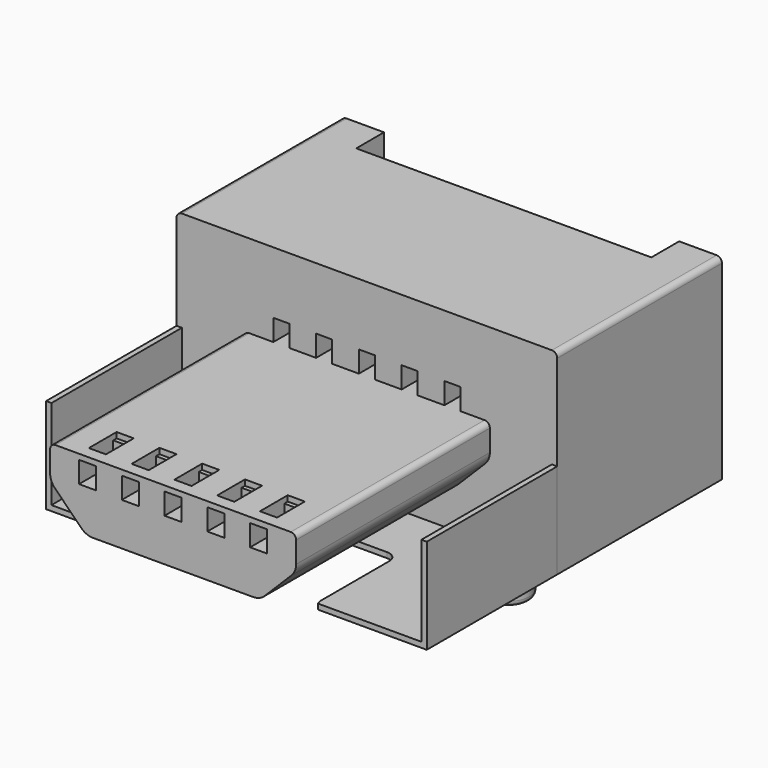
from build123d import *

# Parameters (mm, degrees)
EXTRUDE_SKETCH038_DEPTH                          = 0.65
EXTRUDE_SKETCH038_ONTO_SKETCH038_ROLL_ANGLE      = 90
EXTRUDE_SKETCH038_ONTO_SKETCH038_PLACEMENT_ANGLE = 180
EXTRUDE_SKETCH032_DEPTH                          = 0.3
EXTRUDE_SKETCH037_DEPTH                          = 3.05
EXTRUDE_SKETCH037_ONTO_SKETCH037_ROLL_ANGLE      = 90
SKETCH042_R                                      = 0.4
EXTRUDE_SKETCH042_DEPTH                          = 1
FILLET002005006_R                                = 0.1
SKETCH040_AS_DRAWN_W                             = 0.32
SKETCH040_AS_DRAWN_H                             = 0.4
EXTRUDE_SKETCH040_DEPTH                          = 0.8
EXTRUDE_SKETCH040_ONTO_SKETCH040_ROLL_ANGLE      = 90
SKETCH041_W                                      = 0.32
SKETCH041_H                                      = 0.65
EXTRUDE_SKETCH041_DEPTH                          = 0.15
EXTRUDE_SKETCH036_DEPTH                          = 4.53
EXTRUDE_SKETCH036_ONTO_SKETCH036_ROLL_ANGLE      = 90
SKETCH035_AS_DRAWN_W                             = 0.3
SKETCH035_AS_DRAWN_H                             = 0.4
EXTRUDE_SKETCH035_DEPTH                          = 3.2
EXTRUDE_SKETCH035_ONTO_SKETCH035_ROLL_ANGLE      = 90
EXTRUDE_SKETCH035_ONTO_SKETCH035_PLACEMENT_ANGLE = 180


with BuildPart() as f_4_sketch015_extrude_d:
    # Sketch038 as drawn → Extrude_Sketch038 (new)
    with BuildSketch(Plane.XY):
        with BuildLine():
            Line((-3.5595, 0), (-3.5595, 3.56))
            ThreePointArc((-3.4595, 3.66), (-3.530211, 3.630711), (-3.5595, 3.56))
            Line((-3.4595, 3.66), (-2.7595, 3.66))
            Line((-2.7595, 3.66), (-2.7595, 0.8))
            Line((-2.7595, 0.8), (-2.3595, 0.8))
            Line((-2.3595, 0.8), (-2.3595, 0.4))
            Line((-2.3595, 0.4), (-2.7595, 0.4))
            Line((-2.7595, 0.4), (-2.7595, 0))
            Line((-2.7595, 0), (-3.5595, 0))
        make_face()
        with BuildLine():
            Line((3.5595, 3.56), (3.5595, 0))
            Line((2.7595, 0), (3.5595, 0))
            Line((2.7595, 0.4), (2.7595, 0))
            Line((2.3595, 0.4), (2.7595, 0.4))
            Line((2.3595, 0.8), (2.3595, 0.4))
            Line((2.7595, 0.8), (2.3595, 0.8))
            Line((2.7595, 3.66), (2.7595, 0.8))
            Line((3.4595, 3.66), (2.7595, 3.66))
            ThreePointArc((3.5595, 3.56), (3.530211, 3.630711), (3.4595, 3.66))
        make_face()
    extrude(amount=EXTRUDE_SKETCH038_DEPTH)


with BuildPart() as f_4_sketch015_extrude_d_1:
    # Extrude_Sketch038 onto Sketch038 roll: moved
    add(f_4_sketch015_extrude_d.part.rotate(Axis((0, 0, 0), (1, 0, 0)), EXTRUDE_SKETCH038_ONTO_SKETCH038_ROLL_ANGLE))


with BuildPart() as f_4_sketch015_extrude_d_2:
    # Extrude_Sketch038 onto Sketch038 placement: moved
    add(f_4_sketch015_extrude_d_1.part.moved(Location((0, 2.75, 0))).rotate(Axis((0, 2.75, 0), (0, 0, 1)), EXTRUDE_SKETCH038_ONTO_SKETCH038_PLACEMENT_ANGLE))


with BuildPart() as clone_of_12_sketch032_extrude:
    # Sketch032 → Extrude_Sketch032 (new body)
    with BuildSketch(Plane(origin=(0, 0, 0), x_dir=(1, 0, 0), z_dir=(0, 0, -1))):
        with BuildLine():
            Line((-1.7, 3.6), (1.7, 3.6))
            ThreePointArc((1.7, 3.6), (1.558579, 3.541422), (1.5, 3.400001))
            Line((1.5, 3.400001), (1.5, 1.8))
            ThreePointArc((1.3, 1.6), (1.441421, 1.658579), (1.5, 1.8))
            Line((-1.3, 1.6), (1.3, 1.6))
            ThreePointArc((-1.5, 1.8), (-1.441421, 1.658579), (-1.3, 1.6))
            Line((-1.5, 3.400001), (-1.5, 1.8))
            ThreePointArc((-1.5, 3.400001), (-1.558579, 3.541422), (-1.7, 3.6))
        make_face()
    extrude(amount=-EXTRUDE_SKETCH032_DEPTH)


with BuildPart() as f_3_cut003_c:
    # Sketch037 as drawn → Extrude_Sketch037 (new)
    with BuildSketch(Plane.XY):
        Polygon((-3.5595, 0), (3.5595, 0), (3.55949, 1.78), (3.45949, 1.78), (3.45949, 0.1), (-3.4595, 0.1), (-3.4595, 1.78), (-3.5595, 1.78), align=None)
    extrude(amount=EXTRUDE_SKETCH037_DEPTH)


with BuildPart() as f_3_cut003_c_1:
    # Extrude_Sketch037 onto Sketch037 roll: moved
    add(f_3_cut003_c.part.rotate(Axis((0, 0, 0), (1, 0, 0)), EXTRUDE_SKETCH037_ONTO_SKETCH037_ROLL_ANGLE))


with BuildPart() as f_3_cut003_c_2:
    # Extrude_Sketch037 onto Sketch037 placement: moved
    add(f_3_cut003_c_1.part.moved(Location((0, -0.45, 0))))

    # Cut003: cut Clone of 12.Sketch032_Extrude
    add(clone_of_12_sketch032_extrude.part, mode=Mode.SUBTRACT)


with BuildPart() as f_5_fillet002005006_e:
    # Sketch042 → Extrude_Sketch042 (new body)
    with BuildSketch(Plane(origin=(0, -0.1, 0), x_dir=(-1, 0, 0), z_dir=(0, 0, 1))):
        with Locations((2.2, -0.2)):
            Circle(SKETCH042_R)
        with Locations((-2.2, -0.2)):
            Circle(SKETCH042_R)
    extrude(amount=-EXTRUDE_SKETCH042_DEPTH)

    # Fillet002005006
    fillet002005006_edges = [f_5_fillet002005006_e.edges().sort_by_distance(p)[0] for p in [
        (2.6, 0.1, -1),
        (-1.8, 0.1, -1),
    ]]
    fillet(fillet002005006_edges, radius=FILLET002005006_R)


with BuildPart() as f_2_2_2_sketch040_extrude:
    # Sketch040 as drawn → Extrude_Sketch040 (new)
    with BuildSketch(Plane.XY):
        with Locations((-1.6, 1.8)):
            Rectangle(SKETCH040_AS_DRAWN_W, SKETCH040_AS_DRAWN_H)
        with Locations((-0.8, 1.8)):
            Rectangle(SKETCH040_AS_DRAWN_W, SKETCH040_AS_DRAWN_H)
        with Locations((0, 1.8)):
            Rectangle(SKETCH040_AS_DRAWN_W, SKETCH040_AS_DRAWN_H)
        with Locations((0.8, 1.8)):
            Rectangle(SKETCH040_AS_DRAWN_W, SKETCH040_AS_DRAWN_H)
        with Locations((1.6, 1.8)):
            Rectangle(SKETCH040_AS_DRAWN_W, SKETCH040_AS_DRAWN_H)
    extrude(amount=-EXTRUDE_SKETCH040_DEPTH)


with BuildPart() as f_2_2_2_sketch040_extrude_1:
    # Extrude_Sketch040 onto Sketch040 roll: moved
    add(f_2_2_2_sketch040_extrude.part.rotate(Axis((0, 0, 0), (1, 0, 0)), EXTRUDE_SKETCH040_ONTO_SKETCH040_ROLL_ANGLE))


with BuildPart() as f_2_2_2_sketch040_extrude_2:
    # Extrude_Sketch040 onto Sketch040 placement: moved
    add(f_2_2_2_sketch040_extrude_1.part.moved(Location((0, -4.98, 0))))


with BuildPart() as f_2_2_fusion009005_b:
    # Sketch041 → Extrude_Sketch041 (new body)
    with BuildSketch(Plane(origin=(0, -0.2, 1.995), x_dir=(1, 0, 0), z_dir=(0, 0, 1))):
        with Locations((-1.6, -4.225)):
            Rectangle(SKETCH041_W, SKETCH041_H)
        with Locations((-0.8, -4.225)):
            Rectangle(SKETCH041_W, SKETCH041_H)
        with Locations((0, -4.225)):
            Rectangle(SKETCH041_W, SKETCH041_H)
        with Locations((0.8, -4.225)):
            Rectangle(SKETCH041_W, SKETCH041_H)
        with Locations((1.6, -4.225)):
            Rectangle(SKETCH041_W, SKETCH041_H)
    extrude(amount=EXTRUDE_SKETCH041_DEPTH)

    # Fusion009005: union 2.2.2.Sketch040_Extrude
    add(f_2_2_2_sketch040_extrude_2.part)


with BuildPart() as f_2_cut004002_b:
    # Sketch036 as drawn → Extrude_Sketch036 (new)
    with BuildSketch(Plane.XY):
        with BuildLine():
            Line((-2.2, 2.1), (2.2, 2.1))
            ThreePointArc((2.3, 2), (2.270711, 2.070711), (2.2, 2.1))
            Line((2.3, 2), (2.3, 1.6))
            ThreePointArc((2.212132, 1.387868), (2.277164, 1.485195), (2.3, 1.6))
            Line((2.212132, 1.387868), (1.712132, 0.887868))
            ThreePointArc((1.5, 0.8), (1.614805, 0.822836), (1.712132, 0.887868))
            Line((1.5, 0.8), (-1.5, 0.8))
            ThreePointArc((-1.712132, 0.887868), (-1.614805, 0.822836), (-1.5, 0.8))
            Line((-1.712132, 0.887868), (-2.212132, 1.387868))
            ThreePointArc((-2.3, 1.6), (-2.277164, 1.485195), (-2.212132, 1.387868))
            Line((-2.3, 2), (-2.3, 1.6))
            ThreePointArc((-2.2, 2.1), (-2.270711, 2.070711), (-2.3, 2))
        make_face()
    extrude(amount=EXTRUDE_SKETCH036_DEPTH)


with BuildPart() as f_2_cut004002_b_1:
    # Extrude_Sketch036 onto Sketch036 roll: moved
    add(f_2_cut004002_b.part.rotate(Axis((0, 0, 0), (1, 0, 0)), EXTRUDE_SKETCH036_ONTO_SKETCH036_ROLL_ANGLE))


with BuildPart() as f_2_cut004002_b_2:
    # Extrude_Sketch036 onto Sketch036 placement: moved
    add(f_2_cut004002_b_1.part.moved(Location((0, -0.45, 0))))

    # Cut004002: cut 2.2.Fusion009005-B
    add(f_2_2_fusion009005_b.part, mode=Mode.SUBTRACT)


with BuildPart() as fusion009006:
    # Sketch035 as drawn → Extrude_Sketch035 (new)
    with BuildSketch(Plane.XY):
        with BuildLine():
            Line((3.5595, 0), (-3.5595, 0))
            Line((-3.5595, 0), (-3.5595, 3.56))
            ThreePointArc((-3.4595, 3.66), (-3.530211, 3.630711), (-3.5595, 3.56))
            Line((-3.4595, 3.66), (3.4595, 3.66))
            ThreePointArc((3.5595, 3.56), (3.530211, 3.630711), (3.4595, 3.66))
            Line((3.5595, 3.56), (3.5595, 0))
        make_face()
        with Locations((-1.6, 2.3)):
            Rectangle(SKETCH035_AS_DRAWN_W, SKETCH035_AS_DRAWN_H, mode=Mode.SUBTRACT)
        with Locations((-0.8, 2.3)):
            Rectangle(SKETCH035_AS_DRAWN_W, SKETCH035_AS_DRAWN_H, mode=Mode.SUBTRACT)
        with Locations((0, 2.3)):
            Rectangle(SKETCH035_AS_DRAWN_W, SKETCH035_AS_DRAWN_H, mode=Mode.SUBTRACT)
        with Locations((0.8, 2.3)):
            Rectangle(SKETCH035_AS_DRAWN_W, SKETCH035_AS_DRAWN_H, mode=Mode.SUBTRACT)
        with Locations((1.6, 2.3)):
            Rectangle(SKETCH035_AS_DRAWN_W, SKETCH035_AS_DRAWN_H, mode=Mode.SUBTRACT)
    extrude(amount=-EXTRUDE_SKETCH035_DEPTH)


with BuildPart() as fusion009006_1:
    # Extrude_Sketch035 onto Sketch035 roll: moved
    add(fusion009006.part.rotate(Axis((0, 0, 0), (1, 0, 0)), EXTRUDE_SKETCH035_ONTO_SKETCH035_ROLL_ANGLE))


with BuildPart() as fusion009006_2:
    # Extrude_Sketch035 onto Sketch035 placement: moved
    add(fusion009006_1.part.moved(Location((0, 2.75, 0))).rotate(Axis((0, 2.75, 0), (0, 0, 1)), EXTRUDE_SKETCH035_ONTO_SKETCH035_PLACEMENT_ANGLE))

    # Fusion009006: union 4..Sketch015_Extrude-D, 3.Cut003-C, 5.Fillet002005006-E, 2.Cut004002-B
    add(f_4_sketch015_extrude_d_2.part)
    add(f_3_cut003_c_2.part)
    add(f_5_fillet002005006_e.part)
    add(f_2_cut004002_b_2.part)


with BuildPart() as fusion009006_3:
    # Fusion009006 placement: moved
    add(fusion009006_2.part.moved(Location((0, -0.1, 0))))


solid = fusion009006_3.part
